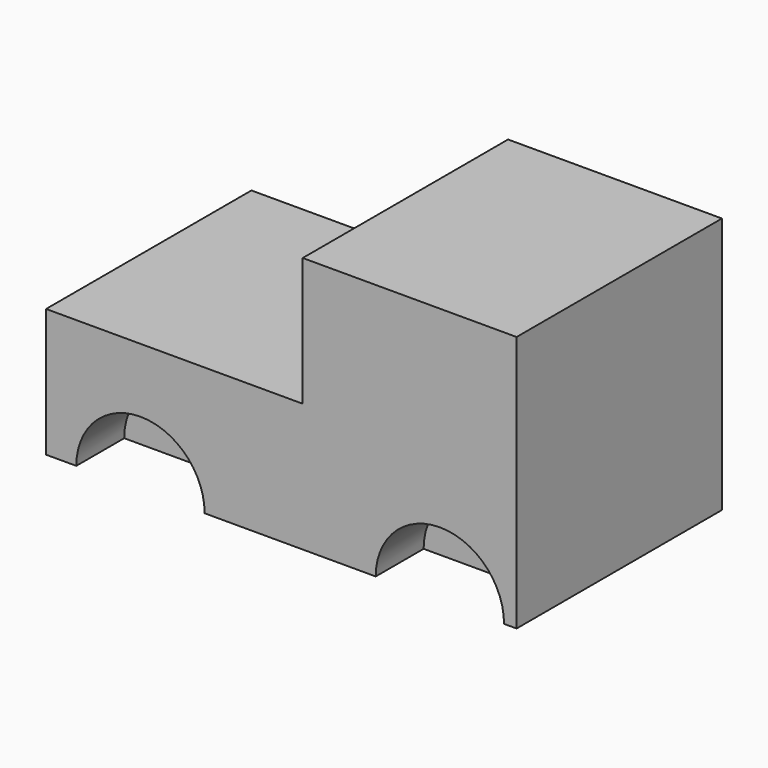
from build123d import *

# Parameters (mm, degrees)
F0_W     = 55
F0_H     = 30
F1_DEPTH = 30
F2_W     = 30
F2_H     = 15
F3_DEPTH = 30.001
F5_DEPTH = 7


with BuildPart() as f1:
    # F0 (on Front) → F1 (new body)
    with BuildSketch(Plane.XZ):
        with Locations((-31.4610829165, -24.9669793993)):
            Rectangle(F0_W, F0_H)
    extrude(amount=F1_DEPTH)

    # F2 (on face) → F3 (cut, through all)
    with BuildSketch(Plane.XZ.offset(30)):
        with Locations((-43.9610829165, -17.4669793993)):
            Rectangle(F2_W, F2_H)
    extrude(amount=-F3_DEPTH, mode=Mode.SUBTRACT)

    # F4 (on face) → F5 (cut)
    with BuildSketch(Plane.XZ.offset(30)):
        with BuildLine():
            Line((-55.4294285178, -39.9669793993), (-40.4294285178, -39.9669793993))
            ThreePointArc((-40.4294285178, -39.9669793993), (-47.9294285178, -32.4669793993), (-55.4294285178, -39.9669793993))
        make_face()
        with BuildLine():
            ThreePointArc((-5.4294285178, -39.9669793993), (-12.9294285178, -32.4669793993), (-20.4294285178, -39.9669793993))
            Line((-20.4294285178, -39.9669793993), (-5.4294285178, -39.9669793993))
        make_face()
    extrude(amount=-F5_DEPTH, mode=Mode.SUBTRACT)


solid = f1.part
